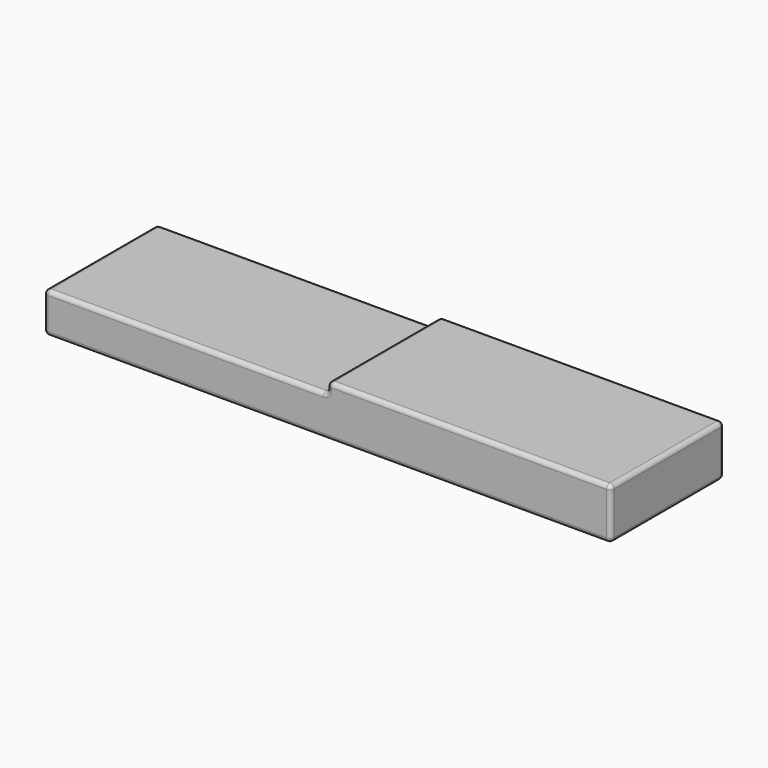
from build123d import *

# Parameters (mm, degrees)
F1_DEPTH = 5
F2_R     = 0.3


with BuildPart() as f1:
    # F0 (on Front) → F1 (new body, symmetric)
    with BuildSketch(Plane.XZ):
        Polygon((0, 2.83), (0, 0), (40, 0), (40, 3.6), (20, 3.6), (20, 2.83), align=None)
    extrude(amount=F1_DEPTH, both=True)

    # F2
    f2_edges = [f1.edges().sort_by_distance(p)[0] for p in [
        (10, 5, 2.83),
        (0, 0, 2.83),
        (0, 5, 1.415),
        (0, -5, 1.415),
        (0, 0, 0),
        (20, -5, 0),
        (10, -5, 2.83),
        (20, 0, 2.83),
        (20, 5, 3.215),
        (20, -5, 3.215),
        (20, 0, 3.6),
        (30, -5, 3.6),
        (30, 5, 3.6),
        (40, 0, 3.6),
        (40, -5, 1.8),
        (40, 5, 1.8),
        (40, 0, 0),
        (20, 5, 0),
    ]]
    fillet(f2_edges, radius=F2_R)


solid = f1.part
